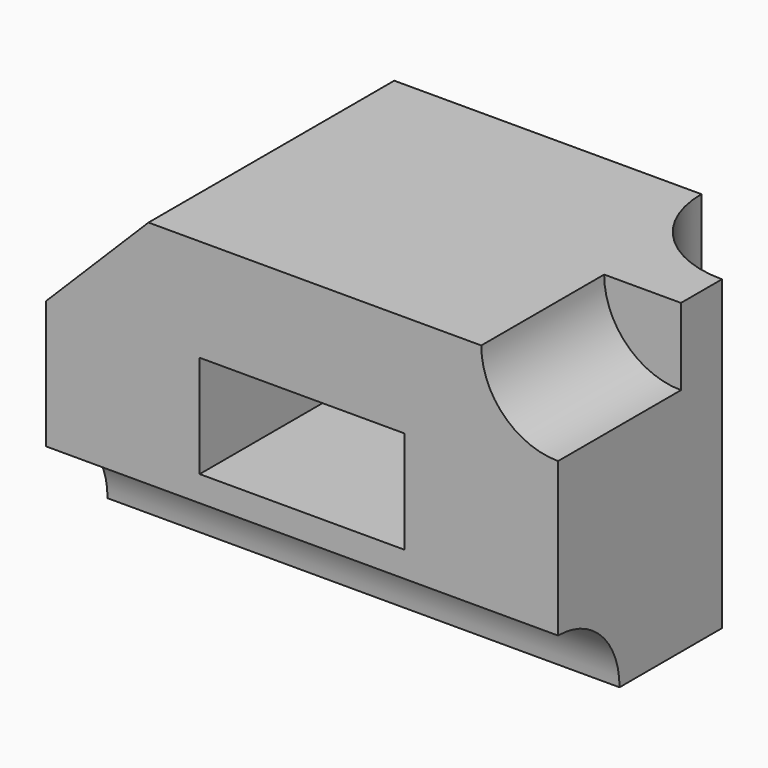
from build123d import *

# Parameters (mm, degrees)
F0_W      = 50
F0_H      = 30
F1_DEPTH  = 30
F2_SIZE   = 10
F3_W      = 20
F3_H      = 10
F4_DEPTH  = 20
F5_R      = 7.5
F6_DEPTH  = 15
F7_R      = 10
F8_DEPTH  = 30.001
F9_R      = 7.5
F10_DEPTH = 50.001


with BuildPart() as f1:
    # F0 (on Front) → F1 (new body)
    with BuildSketch(Plane.XZ):
        with Locations((25, 15)):
            Rectangle(F0_W, F0_H)
    extrude(amount=-F1_DEPTH)

    # F2
    f2_edges = [f1.edges().sort_by_distance(p)[0] for p in [
        (0, 15, 30),
    ]]
    chamfer(f2_edges, length=F2_SIZE)

    # F3 (on face) → F4 (cut)
    with BuildSketch(Plane.XZ):
        with Locations((25, 15)):
            Rectangle(F3_W, F3_H)
    extrude(amount=-F4_DEPTH, mode=Mode.SUBTRACT)

    # F5 (on face) → F6 (cut)
    with BuildSketch(Plane.XZ):
        with Locations((50, 30)):
            Circle(F5_R)
    extrude(amount=-F6_DEPTH, mode=Mode.SUBTRACT)

    # F7 (on face) → F8 (cut, through all)
    with BuildSketch(Plane.XY.offset(30)):
        with Locations((50, 30)):
            Circle(F7_R)
    extrude(amount=-F8_DEPTH, mode=Mode.SUBTRACT)

    # F9 (on face) → F10 (cut, through all)
    with BuildSketch(Plane.YZ.offset(50)):
        Circle(F9_R)
    extrude(amount=-F10_DEPTH, mode=Mode.SUBTRACT)


solid = f1.part
